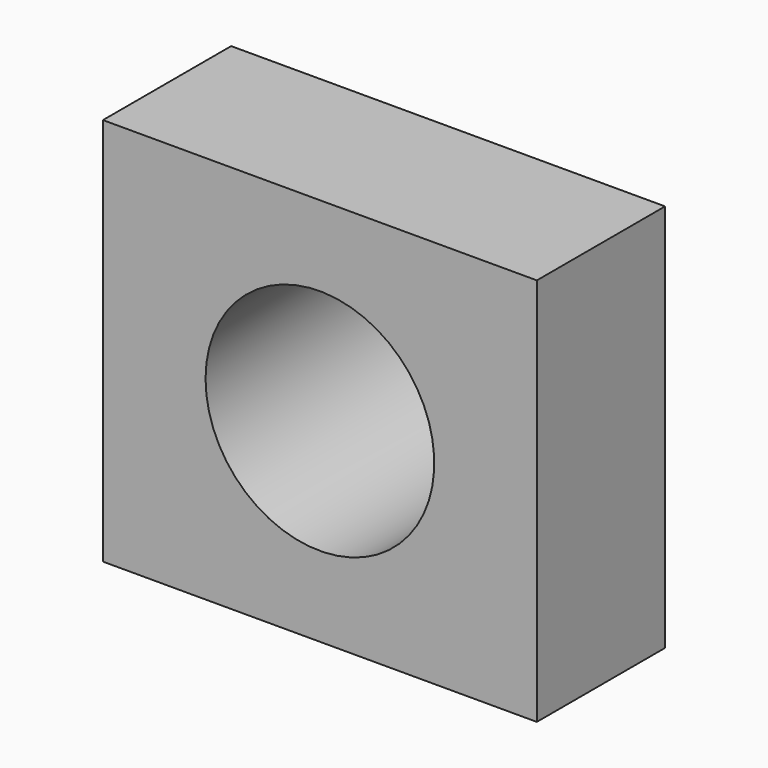
from build123d import *

# Parameters (mm, degrees)
F0_W     = 68.77514
F0_H     = 61.611074
F1_DEPTH = 25.4
F2_R     = 21.354475
F3_DEPTH = 13.462
F4_R     = 18.12526
F5_DEPTH = 60.452


with BuildPart() as f1:
    # F0 (on Front) → F1 (new body)
    with BuildSketch(Plane.XZ):
        Rectangle(F0_W, F0_H)
    extrude(amount=F1_DEPTH)

    # F2 (on face) → F3 (join)
    with BuildSketch(Plane.XZ):
        Circle(F2_R)
    extrude(amount=-F3_DEPTH)

    # F4 (on face) → F5 (cut)
    with BuildSketch(Plane(origin=(0, 13.462, 0), x_dir=(-1, 0, 0), z_dir=(0, 1, 0))):
        Circle(F4_R)
    extrude(amount=-F5_DEPTH, mode=Mode.SUBTRACT)


solid = f1.part
